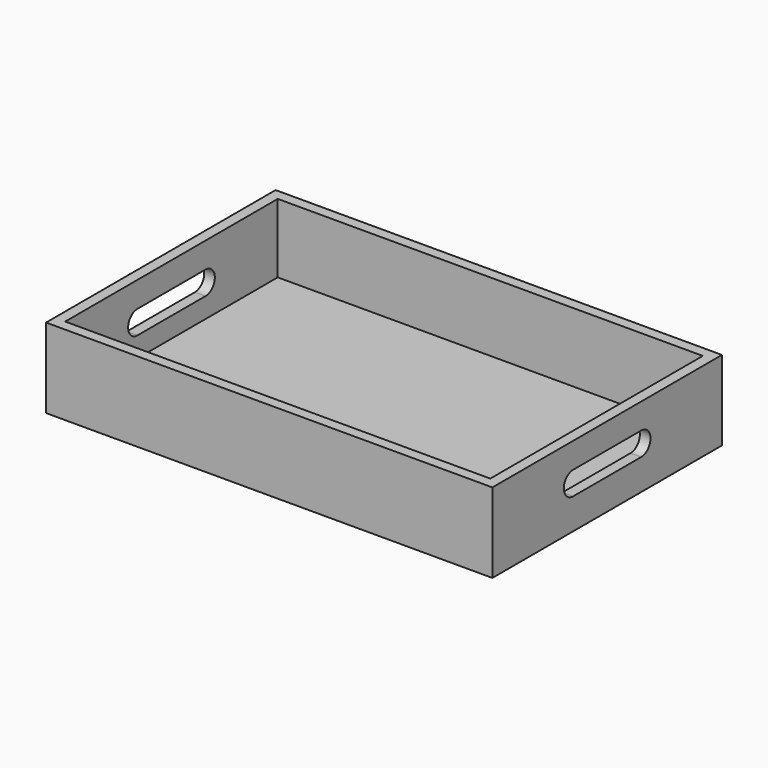
from build123d import *

# Parameters (mm, degrees)
F0_W     = 420
F0_H     = 75
F1_DEPTH = 270
F2_W     = 400
F2_H     = 250
F3_DEPTH = 65
F5_DEPTH = 420.001


with BuildPart() as f1:
    # F0 (on Front) → F1 (new body)
    with BuildSketch(Plane.XZ):
        with Locations((210, 37.5)):
            Rectangle(F0_W, F0_H)
    extrude(amount=-F1_DEPTH)

    # F2 (on face) → F3 (cut)
    with BuildSketch(Plane.XY.offset(75)):
        with Locations((210, 135)):
            Rectangle(F2_W, F2_H)
    extrude(amount=-F3_DEPTH, mode=Mode.SUBTRACT)

    # F4 (on face) → F5 (cut, through all)
    with BuildSketch(Plane.YZ.offset(420)):
        with BuildLine():
            Line((175, 51), (95, 51))
            ThreePointArc((95, 51), (84, 40), (95, 29))
            Line((95, 29), (175, 29))
            ThreePointArc((175, 29), (186, 40), (175, 51))
        make_face()
    extrude(amount=-F5_DEPTH, mode=Mode.SUBTRACT)


solid = f1.part
